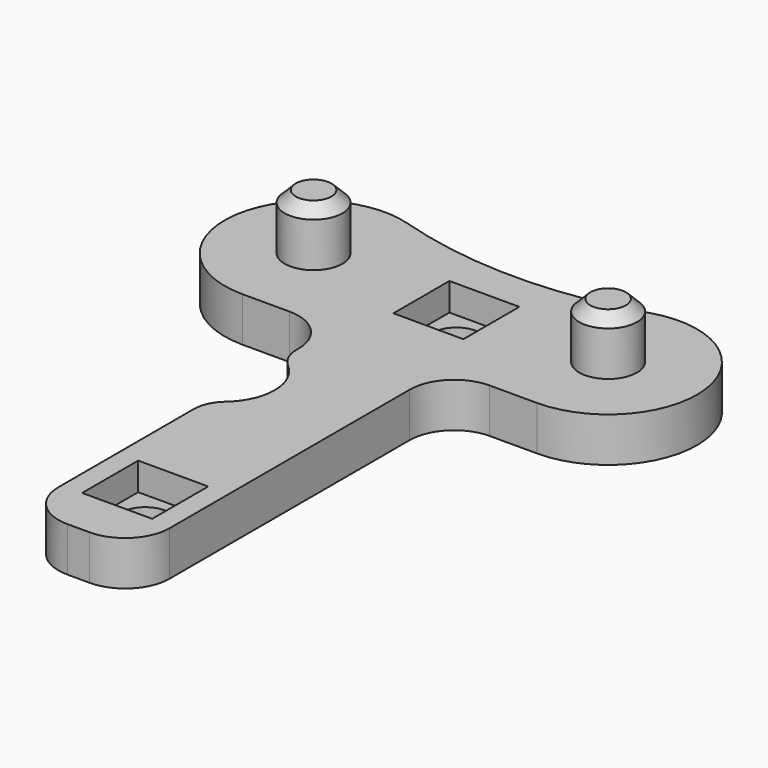
from build123d import *

# Parameters (mm, degrees)
PAD015_DEPTH    = 4
SKETCH023_R     = 2.6
PAD016_DEPTH    = 5
SKETCH024_R     = 2.15
POCKET009_DEPTH = 4.001
SKETCH025_W     = 6.3
SKETCH025_H     = 6.3
POCKET010_DEPTH = 2.5
FILLET007_R     = 4
CHAMFER003_SIZE = 1
SKETCH026_R     = 4.65
POCKET011_DEPTH = 4.001
FILLET008_R     = 3


with BuildPart() as part:
    # Sketch022 → Pad015 (new body)
    with BuildSketch(Plane.XY):
        with BuildLine():
            ThreePointArc((-10.894444, -35.359738), (0, -37), (10.894444, -35.359738))
            ThreePointArc((13.25, -51.005087), (21.16084, -41.814035), (10.894444, -35.359738))
            Line((13.25, -51.005087), (5, -51.005087))
            Line((5, -51.005087), (5, -86.005087))
            Line((-5, -86.005087), (5, -86.005087))
            Line((-5, -51.005087), (-5, -86.005087))
            Line((-13.25, -51.005087), (-5, -51.005087))
            ThreePointArc((-10.894444, -35.359738), (-21.16084, -41.814035), (-13.25, -51.005087))
        make_face()
    extrude(amount=PAD015_DEPTH)

    # Sketch023 (on Face10 of Pad015) → Pad016 (join)
    with BuildSketch(Plane.XY.offset(4)):
        with Locations((-13.25, -43.005087)):
            Circle(SKETCH023_R)
        with Locations((13.25, -43.005087)):
            Circle(SKETCH023_R)
    extrude(amount=PAD016_DEPTH)

    # Sketch024 (on Face5 of Pad016) → Pocket009 (cut, through all)
    with BuildSketch(Plane.XY.offset(4)):
        with Locations((0, -43.505087)):
            Circle(SKETCH024_R)
        with Locations((0, -78.505087)):
            Circle(SKETCH024_R)
    extrude(amount=-POCKET009_DEPTH, mode=Mode.SUBTRACT)

    # Sketch025 (on Face5 of Pocket009) → Pocket010 (cut)
    with BuildSketch(Plane.XY.offset(4)):
        with Locations((0, -43.505087)):
            Rectangle(SKETCH025_W, SKETCH025_H)
        with Locations((0, -78.505087)):
            Rectangle(SKETCH025_W, SKETCH025_H)
    extrude(amount=-POCKET010_DEPTH, mode=Mode.SUBTRACT)

    # Fillet007
    fillet007_edges = [part.edges().sort_by_distance(p)[0] for p in [
        (5, -51.005087, 2),
        (-5, -51.005087, 2),
        (-5, -86.005087, 2),
        (5, -86.005087, 2),
    ]]
    fillet(fillet007_edges, radius=FILLET007_R)

    # Chamfer003
    chamfer003_edges = [part.edges().sort_by_distance(p)[0] for p in [
        (-15.85, -43.005087, 9),
        (10.65, -43.005087, 9),
    ]]
    chamfer(chamfer003_edges, length=CHAMFER003_SIZE)

    # Sketch026 (on Face3 of Chamfer003) → Pocket011 (cut, through all)
    with BuildSketch(Plane.XY.offset(4)):
        with Locations((-7, -61.005087)):
            Circle(SKETCH026_R)
    extrude(amount=-POCKET011_DEPTH, mode=Mode.SUBTRACT)

    # Fillet008
    fillet008_edges = [part.edges().sort_by_distance(p)[0] for p in [
        (-5, -56.807171, 2),
        (-5, -65.203003, 2),
    ]]
    fillet(fillet008_edges, radius=FILLET008_R)


solid = part.part
